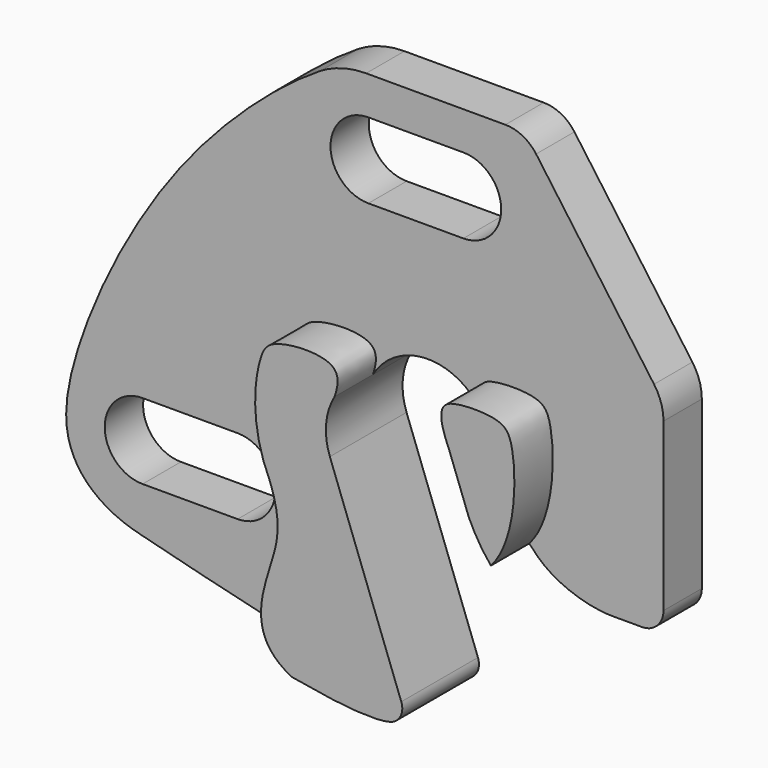
from build123d import *

# Parameters (mm, degrees)
F1_DEPTH = 3.8
F2_DEPTH = 7.6
F3_R     = 7
F4_R     = 3
F5_R     = 4
F6_R     = 1.7


with BuildPart() as f1:
    # F0 (on Front) → F1 (new body)
    with BuildSketch(Plane.XZ):
        with BuildLine():
            Line((19.1431716898, 4.4253403938), (8.1440456616, 19.750261103))
            Line((8.1440456616, 19.750261103), (-6.1453692615, 19.750261103))
            add(Edge.make_bspline(
                [(-6.1453692615, 19.750261103), (-9.4334975883, 18.3276780648), (-20.4694799737, 9.4077816301), (-28.441204782, -7.9211202874), (-28.3713925064, -15.033986271), (-24.9090821352, -17.6588842502), (-22.1613161266, -18.3001520287)],
                knots=[0, 0, 0, 0, 0.3043807241, 0.630499808, 0.8116691041, 1, 1, 1, 1], degree=3))
            add(Edge.make_bspline(
                [(-22.1613161266, -18.3001520287), (-20.4320557503, -18.7037231321), (-13.2463438928, -20.672034694), (-7.2728786379, -21.7751605126)],
                knots=[0, 0, 0, 0, 14.676670933, 14.676670933, 14.676670933, 14.676670933], degree=3))
            add(Edge.make_bspline(
                [(-7.2728786379, -21.7751605126), (-10.7580149359, -20.0565494265), (-8.7832123206, -14.063103822), (-8.03378309, -11.3945532964), (-9.0233562514, -8.6834942922)],
                knots=[0, 0, 0, 0, 0.5245717937, 1, 1, 1, 1], degree=3))
            add(Edge.make_bspline(
                [(-9.0233562514, -8.6834942922), (-10.6191516402, -5.3268720907), (-10.1119981872, -0.4332128436), (-8.8609410373, 1.4029428946), (-3.6260034076, 1.6703835883), (-3.5176839858, 0), (-3.8980361515, -1.1065827018)],
                knots=[0, 0, 0, 0, 0.3686579414, 0.5465668413, 0.8102724675, 1, 1, 1, 1], degree=3))
            ThreePointArc((-3.8980361515, -1.1065827018), (0.6821136218, 1.3926973088), (5.0296685697, -1.4922530361))
            add(Edge.make_bspline(
                [(8.4968951944, -8.8667105614), (10.512974474, -6.6020334922), (10.6178822415, 0.1333355699), (9.2147437469, 1.7017312358), (5.6166367294, 1.6619292411), (4.4507364715, 0.9827180402), (4.4928646091, -0.16227164), (5.0296685697, -1.4922530361)],
                knots=[0, 0, 0, 0, 0.3364900582, 0.4892530829, 0.6935980051, 0.8097848409, 0.9832063696, 0.9832063696, 0.9832063696, 0.9832063696], degree=3))
            add(Edge.make_bspline(
                [(8.4968951944, -8.8667105614), (8.93450925, -9.375769436), (10.8149022533, -11.1384536985), (13.7340780615, -11.7891050671), (15.0382904123, -11.7891050671)],
                knots=[0.3188114686, 0.3188114686, 0.3188114686, 0.3188114686, 0.5009211334, 1, 1, 1, 1], degree=3))
            Line((15.0382904123, -11.7891050671), (19.1431716898, -11.7891050671))
            Line((19.1431716898, -11.7891050671), (19.1431716898, 4.4253403938))
        make_face()
        with BuildLine():
            ThreePointArc((-22.1613161266, -14.6834942922), (-25.1613161266, -11.6834942922), (-22.1613161266, -8.6834942922))
            Line((-22.1613161266, -8.6834942922), (-14.628011294, -8.6834942922))
            ThreePointArc((-14.628011294, -8.6834942922), (-11.628011294, -11.6834942922), (-14.628011294, -14.6834942922))
            Line((-14.628011294, -14.6834942922), (-22.1613161266, -14.6834942922))
        make_face(mode=Mode.SUBTRACT)
        with BuildLine():
            ThreePointArc((3.2729445693, 16.7312547565), (6.2729445693, 13.7312547565), (3.2729445693, 10.7312547565))
            Line((3.2729445693, 10.7312547565), (-4.2603602633, 10.7312547565))
            ThreePointArc((-4.2603602633, 10.7312547565), (-7.2603602633, 13.7312547565), (-4.2603602633, 16.7312547565))
            Line((-4.2603602633, 16.7312547565), (3.2729445693, 16.7312547565))
        make_face(mode=Mode.SUBTRACT)
    extrude(amount=F1_DEPTH)

    # F0 (on Front) → F2 (join)
    with BuildSketch(Plane.XZ):
        with BuildLine():
            add(Edge.make_bspline(
                [(-7.2728786379, -21.7751605126), (-10.7580149359, -20.0565494265), (-8.7832123206, -14.063103822), (-8.03378309, -11.3945532964), (-9.0233562514, -8.6834942922)],
                knots=[0, 0, 0, 0, 0.5245717937, 1, 1, 1, 1], degree=3))
            add(Edge.make_bspline(
                [(-7.2728786379, -21.7751605126), (-3.8634845801, -22.4047767321), (-0.848995576, -22.7525474742), (0.5306684761, -22.3666733306)],
                knots=[14.676670933, 14.676670933, 14.676670933, 14.676670933, 23.053476109, 23.053476109, 23.053476109, 23.053476109], degree=3))
            ThreePointArc((0.5306684761, -22.3666733306), (1.3315647917, -21.7109648486), (1.3916492908, -20.6776312264))
            Line((1.3916492908, -20.6776312264), (-4.2720503639, -5.4112309833))
            ThreePointArc((-4.2720503639, -5.4112309833), (-4.5685146727, -3.2168998843), (-3.8980361515, -1.1065827018))
            add(Edge.make_bspline(
                [(-9.0233562514, -8.6834942922), (-10.6191516402, -5.3268720907), (-10.1119981872, -0.4332128436), (-8.8609410373, 1.4029428946), (-3.6260034076, 1.6703835883), (-3.5176839858, 0), (-3.8980361515, -1.1065827018)],
                knots=[0, 0, 0, 0, 0.3686579414, 0.5465668413, 0.8102724675, 1, 1, 1, 1], degree=3))
        make_face()
        with BuildLine():
            add(Edge.make_bspline(
                [(6.7479446556, -6.068916612), (7.1641658841, -6.9684223917), (7.730783303, -7.9755233328), (8.4968951944, -8.8667105614)],
                knots=[0, 0, 0, 0, 0.3188114686, 0.3188114686, 0.3188114686, 0.3188114686], degree=3))
            add(Edge.make_bspline(
                [(8.4968951944, -8.8667105614), (10.512974474, -6.6020334922), (10.6178822415, 0.1333355699), (9.2147437469, 1.7017312358), (5.6166367294, 1.6619292411), (4.4507364715, 0.9827180402), (4.4928646091, -0.16227164), (5.0296685697, -1.4922530361)],
                knots=[0, 0, 0, 0, 0.3364900582, 0.4892530829, 0.6935980051, 0.8097848409, 0.9832063696, 0.9832063696, 0.9832063696, 0.9832063696], degree=3))
            ThreePointArc((5.0296685697, -1.4922530361), (5.1193553392, -1.6928196399), (5.2002361796, -1.8970963366))
            Line((5.2002361796, -1.8970963366), (6.7479446556, -6.068916612))
        make_face()
    extrude(amount=F2_DEPTH)

    # F3
    f3_edges = [f1.edges().sort_by_distance(p)[0] for p in [
        (-6.145369, -1.9, 19.750261),
    ]]
    fillet(f3_edges, radius=F3_R)

    # F4
    f4_edges = [f1.edges().sort_by_distance(p)[0] for p in [
        (8.144046, -1.9, 19.750261),
    ]]
    fillet(f4_edges, radius=F4_R)

    # F5
    f5_edges = [f1.edges().sort_by_distance(p)[0] for p in [
        (19.143172, -1.9, 4.42534),
    ]]
    fillet(f5_edges, radius=F5_R)

    # F6
    f6_edges = [f1.edges().sort_by_distance(p)[0] for p in [
        (19.143172, -1.9, -11.789105),
    ]]
    fillet(f6_edges, radius=F6_R)


solid = f1.part
